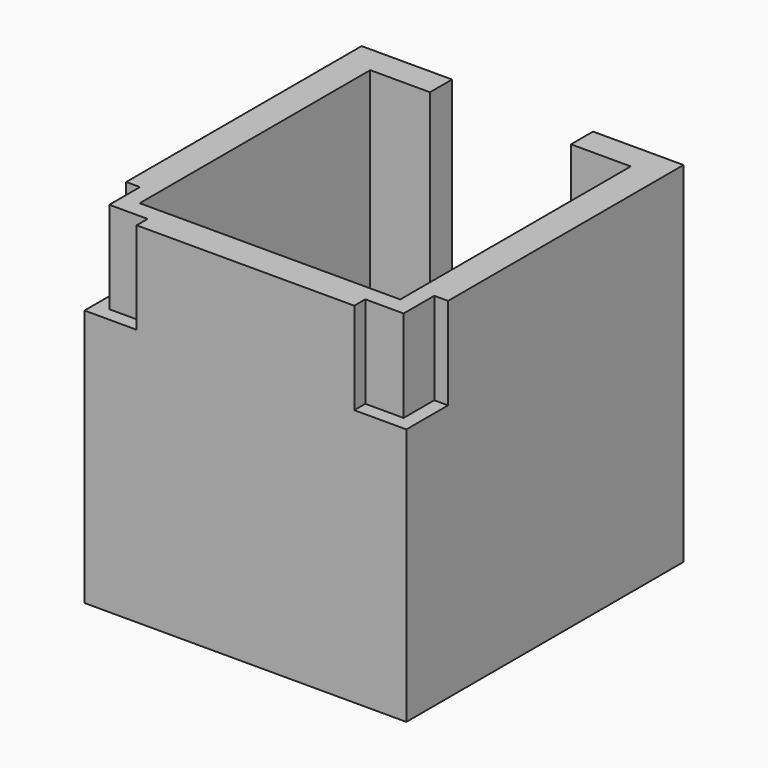
from build123d import *

# Parameters (mm, degrees)
SKETCH112_W     = 52.5
SKETCH112_H     = 56.5
SKETCH112_W_2   = 42.5
SKETCH112_H_2   = 47
PAD058_DEPTH    = 37
SKETCH113_W     = 23
SKETCH113_H     = 33
POCKET050_DEPTH = 5
SKETCH114_W     = 52.5
SKETCH114_H     = 56.5
SKETCH114_W_2   = 47
SKETCH114_H_2   = 52
PAD059_DEPTH    = 20
POCKET060_DEPTH = 15


with BuildPart() as part:
    # Sketch112 → Pad058 (new body)
    with BuildSketch(Plane.XY):
        with Locations((0, -26)):
            Rectangle(SKETCH112_W, SKETCH112_H)
        with Locations((0, -25.75)):
            Rectangle(SKETCH112_W_2, SKETCH112_H_2, mode=Mode.SUBTRACT)
    extrude(amount=PAD058_DEPTH)

    # Sketch113 (on Face1 of Pad058) → Pocket050 (cut)
    with BuildSketch(Plane(origin=(0, 2.25, 0), x_dir=(-1, 0, 0), z_dir=(0, 1, 0))):
        with Locations((0, 20.5)):
            Rectangle(SKETCH113_W, SKETCH113_H)
    extrude(amount=-POCKET050_DEPTH, mode=Mode.SUBTRACT)

    # Sketch114 (on Face2 of Pocket050) → Pad059 (join)
    with BuildSketch(Plane(origin=(0, 0, 0), x_dir=(1, 0, 0), z_dir=(0, 0, -1))):
        with Locations((0, 26)):
            Rectangle(SKETCH114_W, SKETCH114_H)
        with Locations((0, 26)):
            Rectangle(SKETCH114_W_2, SKETCH114_H_2, mode=Mode.SUBTRACT)
    extrude(amount=PAD059_DEPTH)

    # Sketch136 (on Face1 of Pad059) → Pocket060 (cut)
    with BuildSketch(Plane.XY.offset(37)):
        Polygon((-26.25, -54.25), (-26.25, -45.75), (-24, -45.75), (-24, -52), (-17.75, -52), (-17.75, -54.25), align=None)
        Polygon((26.25, -54.25), (26.25, -45.75), (24, -45.75), (24, -52), (17.75, -52), (17.75, -54.25), align=None)
    extrude(amount=-POCKET060_DEPTH, mode=Mode.SUBTRACT)


with BuildPart() as part_1:
    # Body032 placement: moved
    add(part.part.moved(Location((0, 0, 135))))


solid = part_1.part
